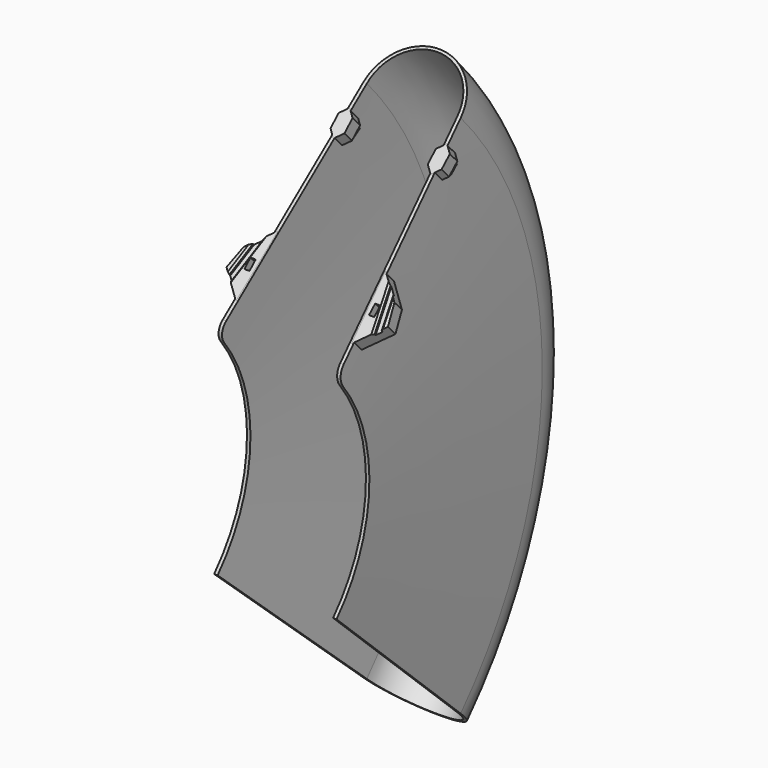
from build123d import *

# Parameters (mm, degrees)
REVOLUTION_ANGLE = 85
FILLET_R         = 8
PAD_DEPTH        = 8
POCKET_DEPTH     = 2
CHAMFER_SIZE     = 1
SKETCH005_W      = 3
SKETCH005_H      = 7
POCKET001_DEPTH  = 87.696576
POCKET002_DEPTH  = 78.501
SKETCH007_W      = 3
SKETCH007_H      = 6
POCKET003_DEPTH  = 87.696576


with BuildPart() as part:
    # Sketch → Revolution (revolve, symmetric)
    with BuildSketch(Plane.XY) as revolution_sk:
        with BuildLine():
            ThreePointArc((28, 223.47956), (0, 250), (-28, 223.47956))
            Line((-35.25, 90), (-28, 223.47956))
            Line((-35.25, 90), (-33.25, 90))
            Line((-33.25, 90), (-26.001373, 223.4))
            ThreePointArc((26.001373, 223.4), (0, 248.411154), (-26.001373, 223.4))
            Line((26.001373, 223.4), (33.25, 90))
            Line((33.25, 90), (35.25, 90))
            Line((35.25, 90), (28, 223.47956))
        make_face()
    revolve(axis=Axis((0, 0, 0), (1, 0, 0)), revolution_arc=REVOLUTION_ANGLE / 2)
    revolve(revolution_sk.sketch, axis=Axis((0, 0, 0), (-1, 0, 0)), revolution_arc=REVOLUTION_ANGLE / 2)

    # Fillet
    fillet_edges = [part.edges().sort_by_distance(p)[0] for p in [
        (34.25, 66.35496, 60.803119),
        (-34.25, 66.35496, 60.803119),
    ]]
    fillet(fillet_edges, radius=FILLET_R)

    # Sketch002 (on Face5 of Fillet) → Pad (new body)
    with BuildSketch(Plane(origin=(0, 0, 0), x_dir=(1, 0, 0), z_dir=(0, -0.67559, 0.737277))):
        Polygon((-43.394171, 132.697505), (-46.5, 121.106395), (-33.248819, 107.855214), (-31, 145.091677), align=None)
        Polygon((43.394171, 132.697505), (46.5, 121.106395), (33.248819, 107.855214), (31, 145.091677), align=None)
        Polygon((28, 194.106395), (32, 198.106395), (32, 206.106395), (28, 210.106395), (24, 206.106395), (24, 198.106395), align=None)
        Polygon((-28, 194.106395), (-24, 198.106395), (-24, 206.106395), (-28, 210.106395), (-32, 206.106395), (-32, 198.106395), align=None)
    extrude(amount=-PAD_DEPTH)

    # Sketch003 (on Face47 of Pad) → Pocket (cut)
    with BuildSketch(Plane(origin=(0, 0, 0), x_dir=(1, 0, 0), z_dir=(0, -0.67559, 0.737277))):
        Polygon((35, 146.869795), (45, 97.88), (47.939388, 98.48), (37.939388, 147.469795), align=None)
        Polygon((-47.939388, 98.48), (-45, 97.88), (-35, 146.869795), (-37.939388, 147.469795), align=None)
    extrude(amount=-POCKET_DEPTH, mode=Mode.SUBTRACT)

    # Chamfer
    chamfer_edges = [part.edges().sort_by_distance(p)[0] for p in [
        (42.094426, 93.718526, 85.877207),
        (38.89944, 94.199359, 86.317809),
        (-38.89944, 94.199359, 86.317809),
        (-42.094426, 93.718526, 85.877207),
    ]]
    chamfer(chamfer_edges, length=CHAMFER_SIZE)

    # Sketch005 (on Face6 of Chamfer) → Pocket001 (cut, through all)
    with BuildSketch(Plane(origin=(0, 5.404722, -5.898219), x_dir=(1, 0, 0), z_dir=(0, 0.67559, -0.737277))):
        with Locations((-36.047712, 125.078524)):
            Rectangle(SKETCH005_W, SKETCH005_H)
        with Locations((36.047712, 125.078524)):
            Rectangle(SKETCH005_W, SKETCH005_H)
    extrude(amount=-POCKET001_DEPTH, mode=Mode.SUBTRACT)

    # Sketch006 → Pocket002 (cut, through all)
    with BuildSketch(Plane.YZ.offset(32)):
        Polygon((154.311436, 128.180853), (156.149665, 125.810007), (160.891358, 129.486466), (159.053128, 131.857312), align=None)
    extrude(amount=-POCKET002_DEPTH, mode=Mode.SUBTRACT)

    # Sketch007 (on Face6 of Pocket002) → Pocket003 (cut, through all)
    with BuildSketch(Plane(origin=(0, 5.404722, -5.898219), x_dir=(1, 0, 0), z_dir=(0, 0.67559, -0.737277))):
        with Locations((-35.898523, -126.117473)):
            Rectangle(SKETCH007_W, SKETCH007_H)
        with Locations((35.898523, -126.117473)):
            Rectangle(SKETCH007_W, SKETCH007_H)
    extrude(amount=-POCKET003_DEPTH, mode=Mode.SUBTRACT)


solid = part.part
